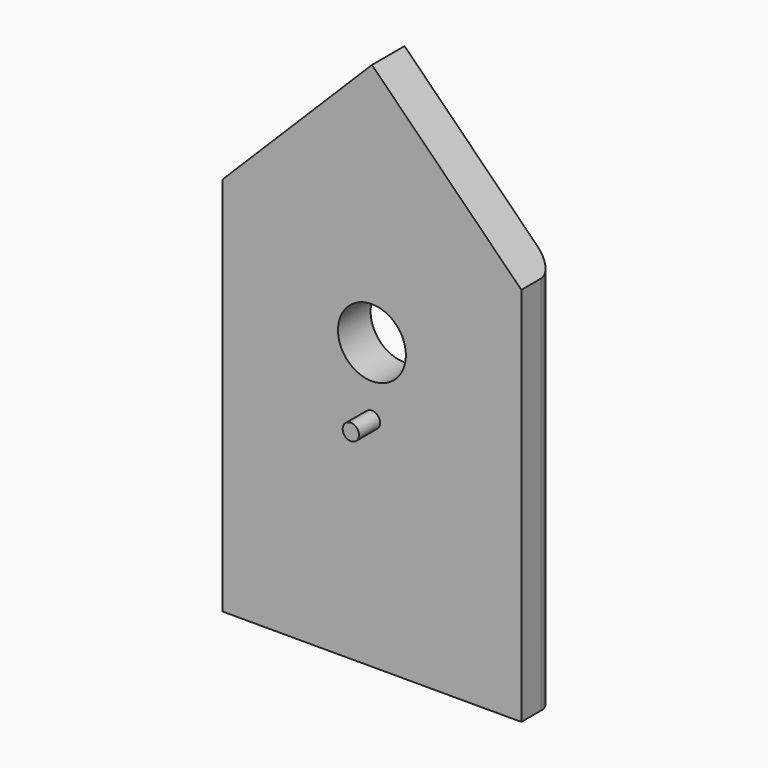
from build123d import *

# Parameters (mm, degrees)
F0_R     = 3.81
F0_R_2   = 15.875
F1_DEPTH = 19.05
F2_DEPTH = 31.369
F3_R     = 7.62
F4_R     = 7.62


with BuildPart() as f1:
    # F0 (on Front) → F1 (new body)
    with BuildSketch(Plane.XZ):
        Polygon((-69.850003, -88.899992), (69.849997, -88.900008), (69.850003, 88.899992), (0, 158.75), (-69.849997, 88.900008), align=None)
        with Locations((0, 12.7)):
            Circle(F0_R, mode=Mode.SUBTRACT)
        with Locations((0, 44.45)):
            Circle(F0_R_2, mode=Mode.SUBTRACT)
    extrude(amount=F1_DEPTH)

    # F0 (on Front) → F2 (join, symmetric)
    with BuildSketch(Plane.XZ):
        with Locations((0, 12.7)):
            Circle(F0_R)
    extrude(amount=F2_DEPTH, both=True)

    # F3
    f3_edges = [f1.edges().sort_by_distance(p)[0] for p in [
        (69.85, 0, -8e-06),
    ]]
    fillet(f3_edges, radius=F3_R)

    # F4
    f4_edges = [f1.edges().sort_by_distance(p)[0] for p in [
        (-69.85, 0, 8e-06),
    ]]
    fillet(f4_edges, radius=F4_R)


solid = f1.part
